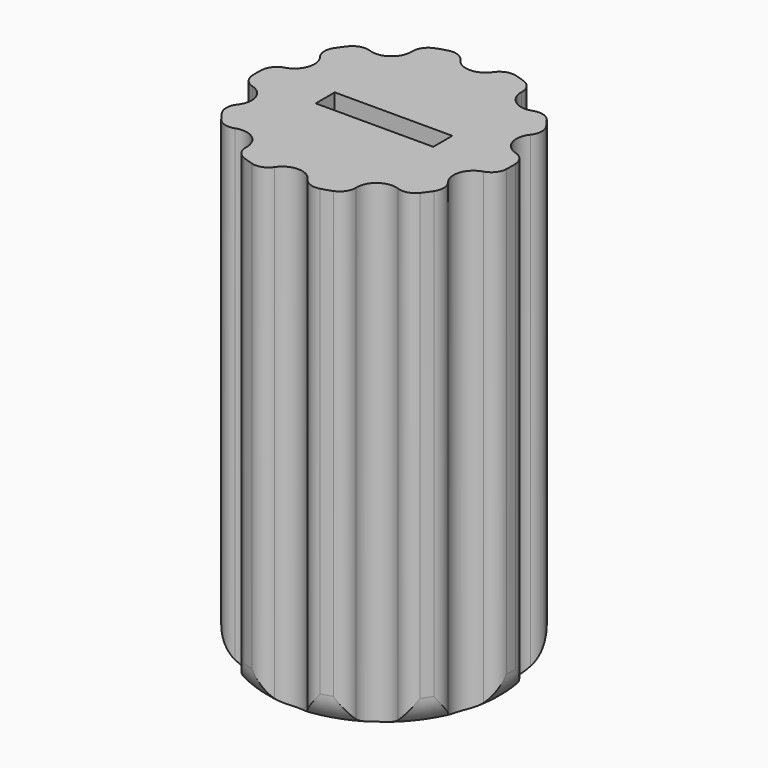
from build123d import *

# Parameters (mm, degrees)
F1_DEPTH = 60
F5_DEPTH = 1.5


with BuildPart() as f1:
    # F0 (on Top) → F1 (new body)
    with BuildSketch(Plane.XY):
        with BuildLine():
            ThreePointArc((-2.0757920149, 14.6067708333), (-3.0417006711, 15.3676493727), (-4.2702007164, 15.4196428571))
            ThreePointArc((-4.2702007164, 15.4196428571), (-4.94427191, 15.2169042607), (-5.6087737181, 14.984714124))
            ThreePointArc((-5.6087737181, 14.984714124), (-6.572090129, 14.2205563024), (-6.9062934626, 13.0372457703))
            ThreePointArc((-6.9062934626, 13.0372457703), (-7.9351009059, 10.9217294241), (-10.2649954963, 10.5970059039))
            ThreePointArc((-10.2649954963, 10.5970059039), (-11.4936651984, 10.6448227097), (-12.518103616, 9.9647921132))
            ThreePointArc((-12.518103616, 9.9647921132), (-12.94427191, 9.4045640367), (-13.3453872275, 8.8261339072))
            ThreePointArc((-13.3453872275, 8.8261339072), (-13.6755658769, 7.6416940636), (-13.2504095737, 6.4879359427))
            ThreePointArc((-13.2504095737, 6.4879359427), (-12.83926297, 4.1717294241), (-14.5333195925, 2.5395448982))
            ThreePointArc((-14.5333195925, 2.5395448982), (-15.5554402752, 1.8560355759), (-15.984516409, 0.7037294728))
            ThreePointArc((-15.984516409, 0.7037294728), (-16, 0), (-15.984516409, -0.7037294728))
            ThreePointArc((-15.984516409, -0.7037294728), (-15.5554402752, -1.8560355759), (-14.5333195925, -2.5395448982))
            ThreePointArc((-14.5333195925, -2.5395448982), (-12.83926297, -4.1717294241), (-13.2504095737, -6.4879359427))
            ThreePointArc((-13.2504095737, -6.4879359427), (-13.6755658769, -7.6416940636), (-13.3453872275, -8.8261339072))
            ThreePointArc((-13.3453872275, -8.8261339072), (-12.94427191, -9.4045640367), (-12.518103616, -9.9647921132))
            ThreePointArc((-12.518103616, -9.9647921132), (-11.4936651984, -10.6448227097), (-10.2649954963, -10.5970059039))
            ThreePointArc((-10.2649954963, -10.5970059039), (-7.9351009059, -10.9217294241), (-6.9062934626, -13.0372457703))
            ThreePointArc((-6.9062934626, -13.0372457703), (-6.572090129, -14.2205563024), (-5.6087737181, -14.984714124))
            ThreePointArc((-5.6087737181, -14.984714124), (-4.94427191, -15.2169042607), (-4.2702007164, -15.4196428571))
            ThreePointArc((-4.2702007164, -15.4196428571), (-3.0417006711, -15.3676493727), (-2.0757920149, -14.6067708333))
            ThreePointArc((-2.0757920149, -14.6067708333), (0, -13.5), (2.0757920149, -14.6067708333))
            ThreePointArc((2.0757920149, -14.6067708333), (3.0417006711, -15.3676493727), (4.2702007164, -15.4196428571))
            ThreePointArc((4.2702007164, -15.4196428571), (4.94427191, -15.2169042607), (5.6087737181, -14.984714124))
            ThreePointArc((5.6087737181, -14.984714124), (6.572090129, -14.2205563024), (6.9062934626, -13.0372457703))
            ThreePointArc((6.9062934626, -13.0372457703), (7.9351009059, -10.9217294241), (10.2649954963, -10.5970059039))
            ThreePointArc((10.2649954963, -10.5970059039), (11.4936651984, -10.6448227097), (12.518103616, -9.9647921132))
            ThreePointArc((12.518103616, -9.9647921132), (12.94427191, -9.4045640367), (13.3453872275, -8.8261339072))
            ThreePointArc((13.3453872275, -8.8261339072), (13.6755658769, -7.6416940636), (13.2504095737, -6.4879359427))
            ThreePointArc((13.2504095737, -6.4879359427), (12.83926297, -4.1717294241), (14.5333195925, -2.5395448982))
            ThreePointArc((14.5333195925, -2.5395448982), (15.5554402752, -1.8560355759), (15.984516409, -0.7037294728))
            ThreePointArc((15.984516409, -0.7037294728), (16, 0), (15.984516409, 0.7037294728))
            ThreePointArc((15.984516409, 0.7037294728), (15.5554402752, 1.8560355759), (14.5333195925, 2.5395448982))
            ThreePointArc((14.5333195925, 2.5395448982), (12.83926297, 4.1717294241), (13.2504095737, 6.4879359427))
            ThreePointArc((13.2504095737, 6.4879359427), (13.6755658769, 7.6416940636), (13.3453872275, 8.8261339072))
            ThreePointArc((13.3453872275, 8.8261339072), (12.94427191, 9.4045640367), (12.518103616, 9.9647921132))
            ThreePointArc((12.518103616, 9.9647921132), (11.4936651984, 10.6448227097), (10.2649954963, 10.5970059039))
            ThreePointArc((10.2649954963, 10.5970059039), (7.9351009059, 10.9217294241), (6.9062934626, 13.0372457703))
            ThreePointArc((6.9062934626, 13.0372457703), (6.572090129, 14.2205563024), (5.6087737181, 14.984714124))
            ThreePointArc((5.6087737181, 14.984714124), (4.94427191, 15.2169042607), (4.2702007164, 15.4196428571))
            ThreePointArc((4.2702007164, 15.4196428571), (3.0417006711, 15.3676493727), (2.0757920149, 14.6067708333))
            ThreePointArc((2.0757920149, 14.6067708333), (0, 13.5), (-2.0757920149, 14.6067708333))
        make_face()
    extrude(amount=F1_DEPTH)

    # F2 (on Right) → F3 (revolve, cut)
    with BuildSketch(Plane.YZ):
        with BuildLine():
            ThreePointArc((16, 4), (14.8284271247, 1.1715728753), (12, 0))
            Line((12, 0), (16, 0))
            Line((16, 0), (16, 4))
        make_face()
    revolve(axis=Axis((0, 0, 44.8818765581), (0, 0, 1)), mode=Mode.SUBTRACT)

    # F4 (on Front) → F5 (cut, symmetric)
    with BuildSketch(Plane.XZ):
        with BuildLine():
            Line((-1.625, 6), (0, 6))
            Line((0, 6), (0, 48))
            Line((0, 48), (0, 60))
            Line((0, 60), (-7.4, 60))
            Line((-7.4, 60), (-7.4, 48))
            Line((-7.4, 48), (-7.0708986299, 48))
            ThreePointArc((-7.0708986299, 48), (-5.3699794466, 47.3321773746), (-4.577790115, 45.6854991455))
            Line((-4.577790115, 45.6854991455), (-1.625, 6))
        make_face()
        with BuildLine():
            Line((0, 48), (0, 6))
            Line((0, 6), (1.625, 6))
            Line((1.625, 6), (4.577790115, 45.6854991455))
            ThreePointArc((4.577790115, 45.6854991455), (5.3699794466, 47.3321773746), (7.0708986299, 48))
            Line((7.0708986299, 48), (7.4, 48))
            Line((7.4, 48), (7.4, 60))
            Line((7.4, 60), (0, 60))
            Line((0, 60), (0, 48))
        make_face()
    extrude(amount=F5_DEPTH, both=True, mode=Mode.SUBTRACT)


solid = f1.part
